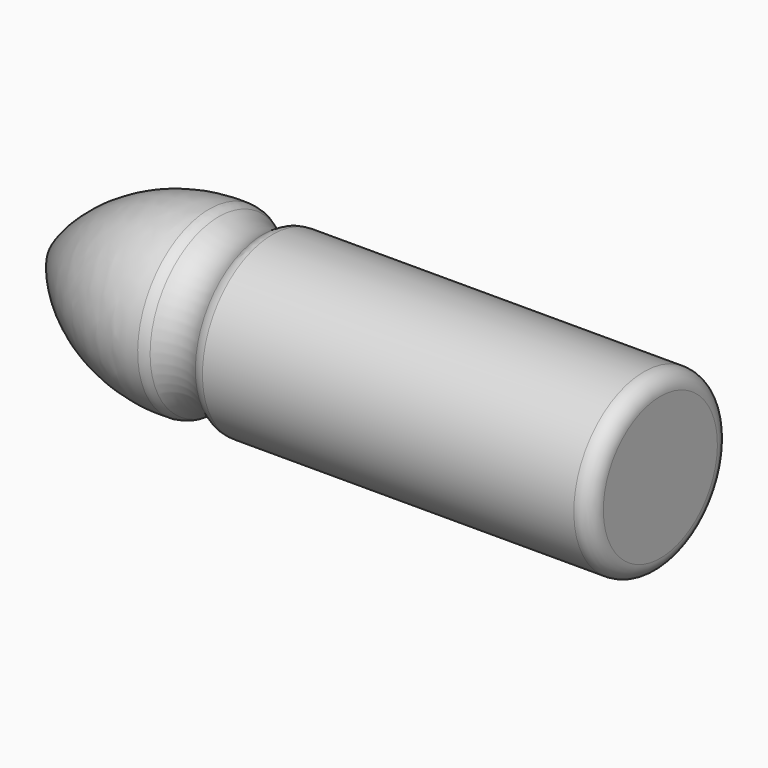
from build123d import *

# Parameters (mm, degrees)
F2_R = 2


with BuildPart() as f1:
    # F0 (on Front) → F1 (revolve)
    with BuildSketch(Plane.XZ):
        with BuildLine():
            ThreePointArc((26.579239, 10.699205), (23.398797, 9.494136), (20.287498, 10.867895))
            ThreePointArc((20.287498, 10.867895), (8.555291, 8.399181), (0, 0))
            Line((0, 0), (74.605271, 0))
            Line((74.605271, 0), (74.605271, 10.699205))
            Line((74.605271, 10.699205), (26.579239, 10.699205))
        make_face()
    revolve(axis=Axis((37.302636, 0, 0), (-1, 0, 0)))

    # F2
    f2_edges = [f1.edges().sort_by_distance(p)[0] for p in [
        (20.287498, 0, -10.867895),
        (26.579239, 0, -10.699205),
        (74.605271, 0, -10.699205),
    ]]
    fillet(f2_edges, radius=F2_R)


solid = f1.part
